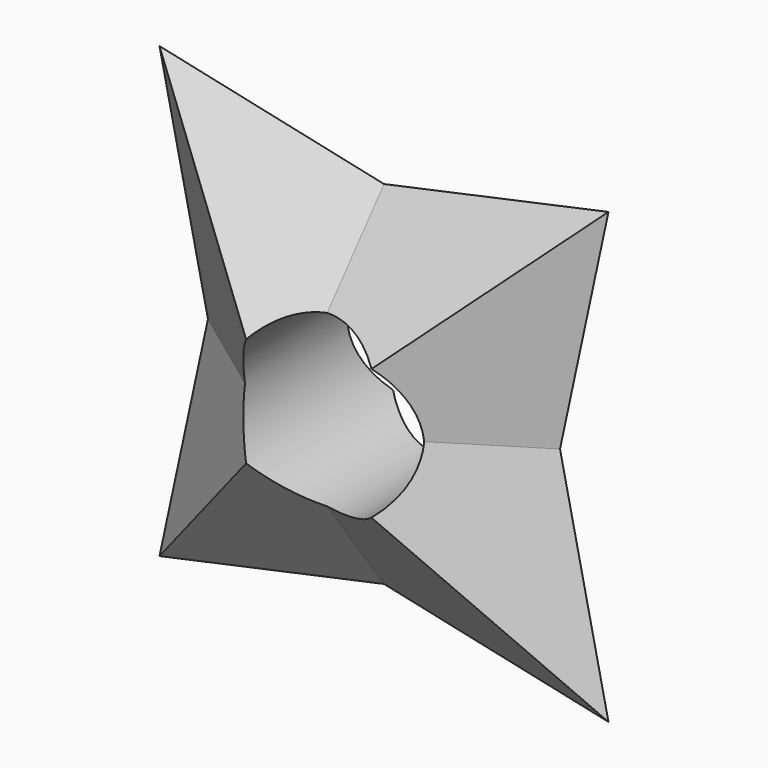
from build123d import *

# Parameters (mm, degrees)
F7_R     = 13.2729716618
F8_DEPTH = 29.2


with BuildPart() as f3:
    # F0 (on Front) → F3 section 0
    with BuildSketch(Plane.XZ, mode=Mode.PRIVATE) as f3_s0:
        Polygon((-27.3326151073, 0), (-34.8543561995, -34.8543561995), (0, -27.3326151073), (34.8543561995, -34.8543561995), (27.3326151073, 0), (34.8543561995, 34.8543561995), (0, 27.3326151073), (-34.8543561995, 34.8543561995), align=None)
    loft([f3_s0.sketch, Vertex(-2.2883485071, -18.5, 0)])

    # F3_face (on face) → F6 section 0
    with BuildSketch(Plane(origin=(0, 0, 0), x_dir=(-1, 0, 0), z_dir=(0, 1, 0)), mode=Mode.PRIVATE) as f6_s0:
        Polygon((27.3326151073, 0), (34.8543561995, 34.8543561995), (0, 27.3326151073), (-34.8543561995, 34.8543561995), (-27.3326151073, 0), (-34.8543561995, -34.8543561995), (0, -27.3326151073), (34.8543561995, -34.8543561995), align=None)
    loft([f6_s0.sketch, Vertex(0, 18.5, 0)])

    # F7 (on Front) → F8 (cut, symmetric)
    with BuildSketch(Plane.XZ):
        Circle(F7_R)
    extrude(amount=F8_DEPTH, both=True, mode=Mode.SUBTRACT)


solid = f3.part
